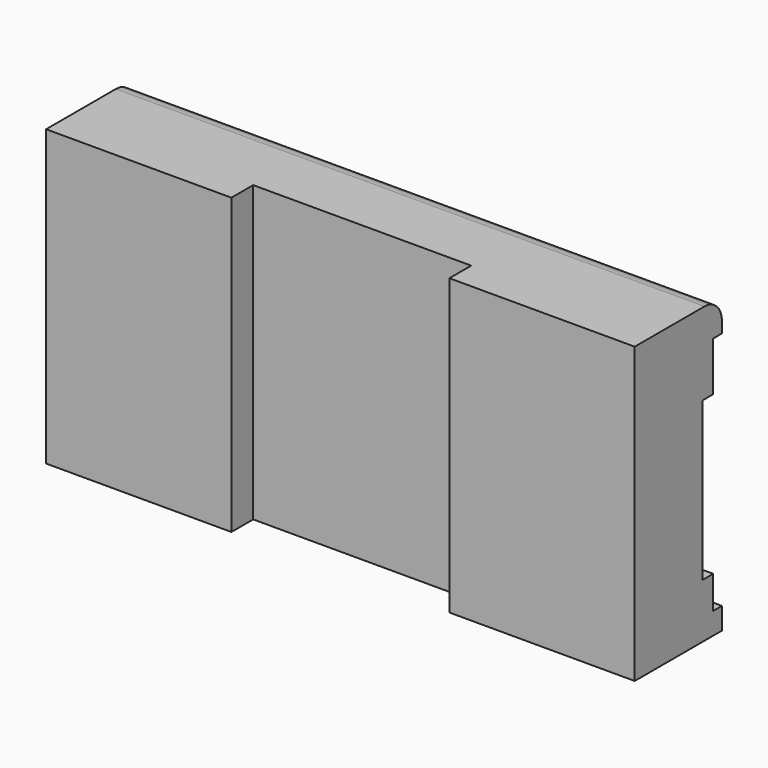
from build123d import *

# Parameters (mm, degrees)
F1_DEPTH = 27
F2_W     = 1
F2_H     = 14.5
F2_W_2   = 1.25
F2_H_2   = 3
F2_H_3   = 4.5
F3_DEPTH = 75
F4_R     = 2


with BuildPart() as f1:
    # F0 (on Top) → F1 (new body)
    with BuildSketch(Plane.XY):
        Polygon((10, -5), (27, -5), (27, 5), (-27, 5), (-27, -5), (-10, -5), (-10, -2.5), (10, -2.5), align=None)
    extrude(amount=F1_DEPTH)

    # F2 (on face) → F3 (cut)
    with BuildSketch(Plane(origin=(-27, 0, 0), x_dir=(0, -1, 0), z_dir=(-1, 0, 0))):
        with Locations((-4.5, 12.25)):
            Rectangle(F2_W, F2_H)
        with Locations((-3.375, 12.25)):
            Rectangle(F2_W_2, F2_H)
        with Locations((-4.5, 3.5)):
            Rectangle(F2_W, F2_H_2)
        with Locations((-4.5, 21.75)):
            Rectangle(F2_W, F2_H_3)
    extrude(amount=-F3_DEPTH, mode=Mode.SUBTRACT)

    # F4
    f4_edges = [f1.edges().sort_by_distance(p)[0] for p in [
        (0, 5, 27),
    ]]
    fillet(f4_edges, radius=F4_R)


solid = f1.part
